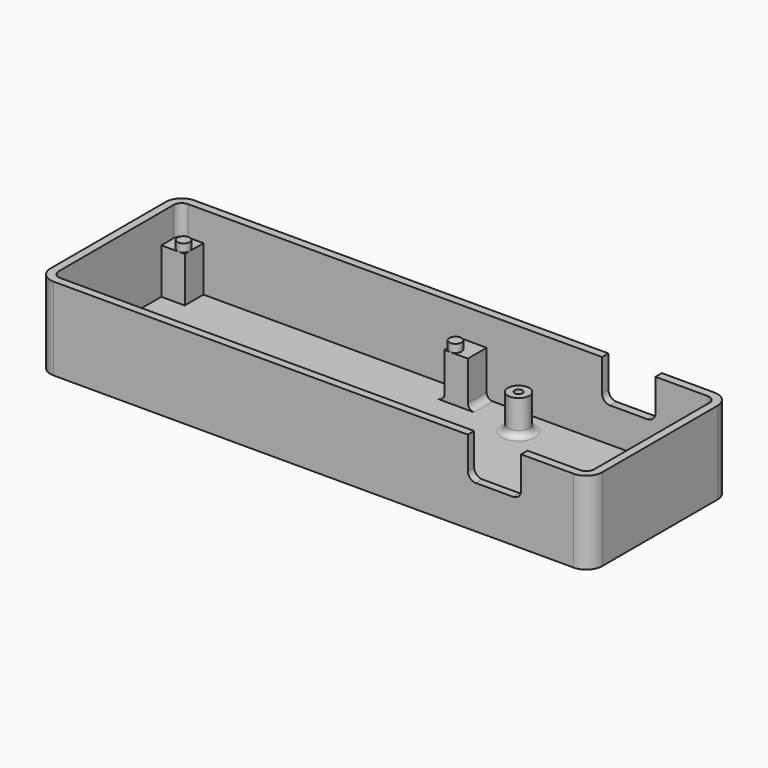
from build123d import *

# Parameters (mm, degrees)
SKETCH001_W     = 103.5
SKETCH001_H     = 33
PAD_DEPTH       = 1.5
SKETCH002_W     = 103.5
SKETCH002_H     = 33
SKETCH002_W_2   = 100.5
SKETCH002_H_2   = 30
PAD001_DEPTH    = 14
SKETCH003_R     = 1.15
SKETCH003_R_2   = 2
SKETCH003_R_3   = 0.75
PAD002_DEPTH    = 10
SKETCH004_W     = 4.4
SKETCH004_H     = 4.4
PAD003_DEPTH    = 8.5
FILLET_R        = 1.15
SKETCH005_R     = 2
POCKET_DEPTH    = 3.5
SKETCH006_W     = 9.999999
SKETCH006_H     = 7.5
POCKET001_DEPTH = 16.6
FILLET001_R     = 1.5
FILLET002_R     = 1.5
FILLET003_R     = 3


with BuildPart() as part:
    # Sketch001 → Pad (new body)
    with BuildSketch(Plane.XY):
        Rectangle(SKETCH001_W, SKETCH001_H)
    extrude(amount=-PAD_DEPTH)

    # Sketch002 (on Face5 of Pad) → Pad001 (join)
    with BuildSketch(Plane.XY):
        Rectangle(SKETCH002_W, SKETCH002_H)
        Rectangle(SKETCH002_W_2, SKETCH002_H_2, mode=Mode.SUBTRACT)
    extrude(amount=PAD001_DEPTH)

    # Sketch003 (on Face15 of Pad001) → Pad002 (join)
    with BuildSketch(Plane.XY):
        with Locations((4, -11.75)):
            Circle(SKETCH003_R)
        with Locations((-47, -11.75)):
            Circle(SKETCH003_R)
        with Locations((-47, 11.75)):
            Circle(SKETCH003_R)
        with Locations((4, 11.75)):
            Circle(SKETCH003_R)
        with Locations((17.25, 10)):
            Circle(SKETCH003_R_2)
        with Locations((17.25, 10)):
            Circle(SKETCH003_R_3, mode=Mode.SUBTRACT)
        with Locations((17.25, -10)):
            Circle(SKETCH003_R_2)
        with Locations((17.25, -10)):
            Circle(SKETCH003_R_3, mode=Mode.SUBTRACT)
        with Locations((47.25, 0)):
            Circle(SKETCH003_R_2)
        with Locations((47.25, 0)):
            Circle(SKETCH003_R_3, mode=Mode.SUBTRACT)
    extrude(amount=PAD002_DEPTH)

    # Sketch004 (on Face15 of Pad002) → Pad003 (join)
    with BuildSketch(Plane.XY):
        with Locations((-48.05, 12.8)):
            Rectangle(SKETCH004_W, SKETCH004_H)
        with Locations((-48.05, -12.8)):
            Rectangle(SKETCH004_W, SKETCH004_H)
        with Locations((5.05, 12.8)):
            Rectangle(SKETCH004_W, SKETCH004_H)
        with Locations((5.05, -12.8)):
            Rectangle(SKETCH004_W, SKETCH004_H)
    extrude(amount=PAD003_DEPTH)

    # Fillet
    fillet_edges = [part.edges().sort_by_distance(p)[0] for p in [
        (45.25, 0, 0),
        (15.25, 10, 0),
        (15.25, -10, 0),
        (2.85, 13.375, 0),
        (2.85, 11.175, 0),
        (2.85, -11.175, 0),
        (2.85, -13.375, 0),
        (7.25, 12.8, 0),
        (7.25, -12.8, 0),
    ]]
    fillet(fillet_edges, radius=FILLET_R)

    # Sketch005 (on Face62 of Fillet) → Pocket (cut)
    with BuildSketch(Plane.XY.offset(10)):
        with Locations((17.25, 10)):
            Circle(SKETCH005_R)
        with Locations((17.25, -10)):
            Circle(SKETCH005_R)
        with Locations((47.25, 0)):
            Circle(SKETCH005_R)
    extrude(amount=-POCKET_DEPTH, mode=Mode.SUBTRACT)

    # Sketch006 → Pocket001 (cut, symmetric)
    with BuildSketch(Plane.XZ):
        with Locations((33.916666, 10.25)):
            Rectangle(SKETCH006_W, SKETCH006_H)
    extrude(amount=POCKET001_DEPTH, both=True, mode=Mode.SUBTRACT)

    # Fillet001
    fillet001_edges = [part.edges().sort_by_distance(p)[0] for p in [
        (38.916666, -15.75, 6.5),
        (38.916666, 15.75, 6.5),
        (28.916667, -15.75, 6.5),
        (28.916667, 15.75, 6.5),
    ]]
    fillet(fillet001_edges, radius=FILLET001_R)

    # Fillet002
    fillet002_edges = [part.edges().sort_by_distance(p)[0] for p in [
        (50.25, 15, 7),
        (50.25, -15, 7),
        (-50.25, 15, 11.25),
        (-50.25, -15, 11.25),
    ]]
    fillet(fillet002_edges, radius=FILLET002_R)

    # Fillet003
    fillet003_edges = [part.edges().sort_by_distance(p)[0] for p in [
        (-51.75, -16.5, 7),
        (51.75, -16.5, 7),
        (51.75, 16.5, 7),
        (-51.75, 16.5, 7),
    ]]
    fillet(fillet003_edges, radius=FILLET003_R)


solid = part.part
